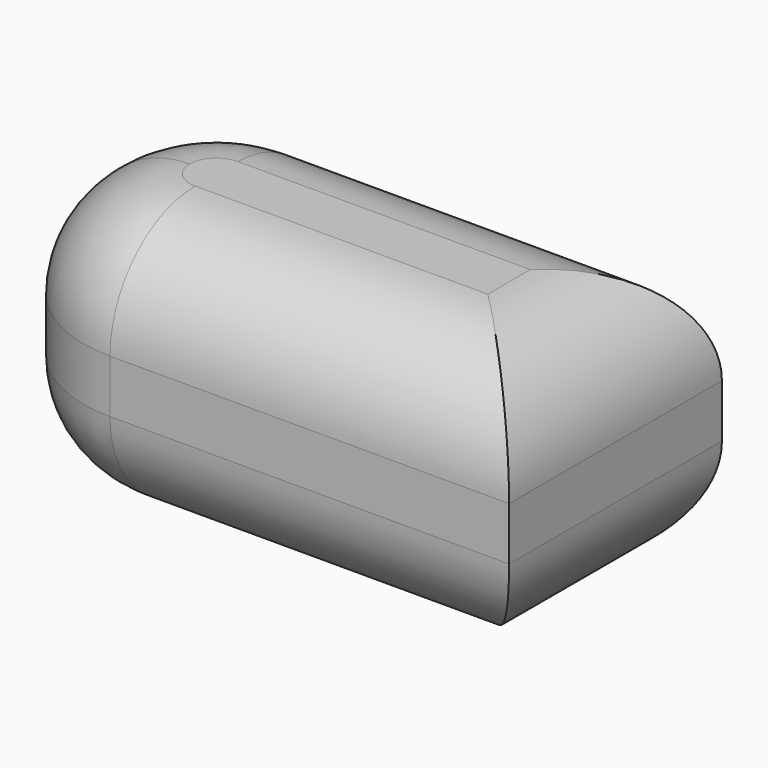
from build123d import *

# Parameters (mm, degrees)
F1_DEPTH = 12.7
F2_R     = 5.08


with BuildPart() as f1:
    # F0 (on Top) → F1 (new body)
    with BuildSketch(Plane.XY):
        with BuildLine():
            Line((0, 12.7), (-19.05, 12.7))
            ThreePointArc((-19.05, 12.7), (-23.540128, 10.840128), (-25.4, 6.35))
            ThreePointArc((-25.4, 6.35), (-23.540128, 1.859872), (-19.05, 0))
            Line((-19.05, 0), (0, 0))
            Line((0, 0), (0, 12.7))
        make_face()
    extrude(amount=F1_DEPTH)

    # F2
    f2_edges = [f1.edges().sort_by_distance(p)[0] for p in [
        (-9.525, 0, 12.7),
        (0, 6.35, 12.7),
        (-9.525, 12.7, 12.7),
        (-25.4, 6.35, 12.7),
        (-9.525, 0, 0),
        (0, 6.35, 0),
        (-9.525, 12.7, 0),
        (-25.4, 6.35, 0),
    ]]
    fillet(f2_edges, radius=F2_R)


solid = f1.part
